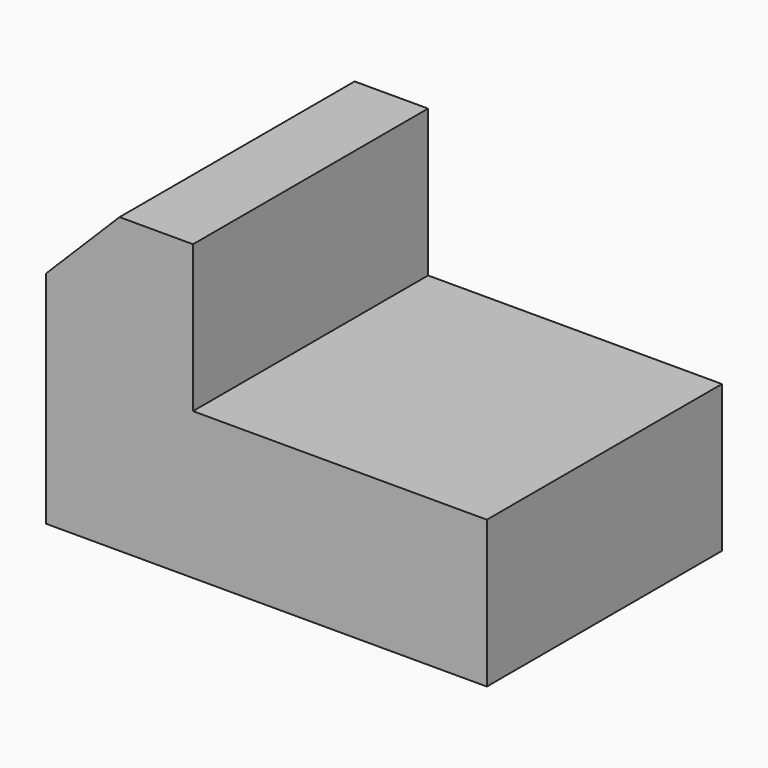
from build123d import *

# Parameters (mm, degrees)
F0_W          = 76.2
F0_H          = 50.8
F1_DEPTH      = 25.4
F3_DEPTH      = 25.4
F4_W          = 50.8
F4_H          = 25.4
F5_DEPTH      = 25.4
F5_DEPTH_BACK = 87.34144


with BuildPart() as f1:
    # F0 (on Front) → F1 (new body, symmetric)
    with BuildSketch(Plane.XZ):
        with Locations((38.1, 25.4)):
            Rectangle(F0_W, F0_H)
    extrude(amount=F1_DEPTH, both=True)

    # F2 (on Front) → F3 (cut, symmetric)
    with BuildSketch(Plane.XZ):
        Polygon((0, 50.8), (0, 38.1), (12.7, 50.8), align=None)
    extrude(amount=F3_DEPTH, both=True, mode=Mode.SUBTRACT)

    # F4 (on Front) → F5 (cut, two sides)
    with BuildSketch(Plane.XZ) as f5_sk:
        with Locations((50.8, 38.1)):
            Rectangle(F4_W, F4_H)
    extrude(amount=F5_DEPTH, mode=Mode.SUBTRACT)
    extrude(f5_sk.sketch, amount=-F5_DEPTH_BACK, mode=Mode.SUBTRACT)


solid = f1.part
